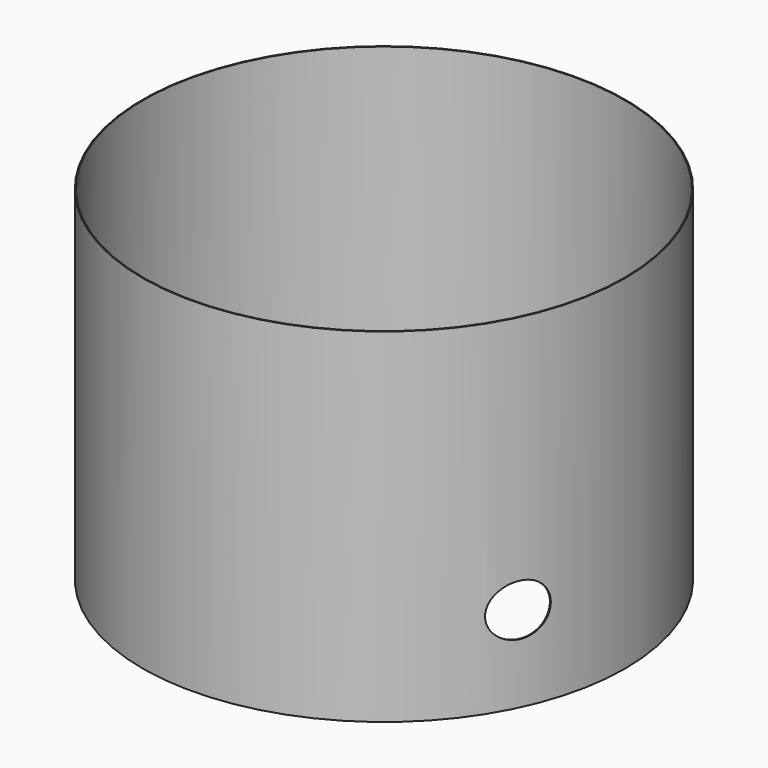
from build123d import *

# Parameters (mm, degrees)
F0_R     = 281
F0_R_2   = 280
F1_DEPTH = 200
F3_R     = 30
F4_DEPTH = 300


with BuildPart() as f1:
    # F0 (on Top) → F1 (new body, symmetric)
    with BuildSketch(Plane.XY):
        Circle(F0_R)
        Circle(F0_R_2, mode=Mode.SUBTRACT)
    extrude(amount=F1_DEPTH, both=True)

    # F3 (on offset) → F4 (cut)
    with BuildSketch(Plane.YZ.offset(281)):
        with Locations((-120, -100)):
            Circle(F3_R)
    extrude(amount=-F4_DEPTH, mode=Mode.SUBTRACT)


solid = f1.part
